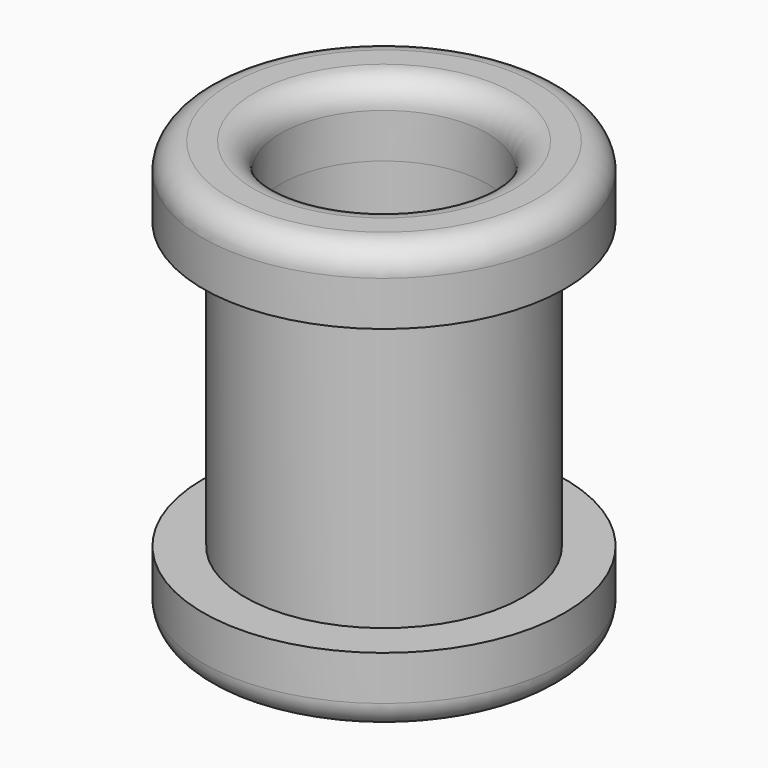
from build123d import *

# Parameters (mm, degrees)
F0_R     = 3.9
F0_R_2   = 2.9
F1_DEPTH = 10
F0_R_3   = 5.075
F2_DEPTH = 2
F3_R     = 0.75
F4_R     = 5.075
F4_R_2   = 3.9
F4_R_3   = 2.9
F5_DEPTH = 2
F6_R     = 0.75


with BuildPart() as f1:
    # F0 (on Top) → F1 (new body)
    with BuildSketch(Plane.XY):
        Circle(F0_R)
        Circle(F0_R_2, mode=Mode.SUBTRACT)
    extrude(amount=F1_DEPTH)

    # F0 (on Top) → F2 (join)
    with BuildSketch(Plane.XY):
        Circle(F0_R_3)
        Circle(F0_R, mode=Mode.SUBTRACT)
    extrude(amount=F2_DEPTH)

    # F3
    f3_edges = [f1.edges().sort_by_distance(p)[0] for p in [
        (-5.075, 0, 0),
        (-2.9, 0, 0),
    ]]
    fillet(f3_edges, radius=F3_R)


with BuildPart() as f5:
    # F4 (on face) → F5 (new body)
    with BuildSketch(Plane.XY.offset(10)):
        Circle(F4_R)
        Circle(F4_R_2, mode=Mode.SUBTRACT)
        Circle(F4_R_2)
        Circle(F4_R_3, mode=Mode.SUBTRACT)
    extrude(amount=F5_DEPTH)

    # F6
    f6_edges = [f5.edges().sort_by_distance(p)[0] for p in [
        (-5.075, 0, 12),
        (-2.9, 0, 12),
    ]]
    fillet(f6_edges, radius=F6_R)


solid = Compound([f1.part, f5.part])
